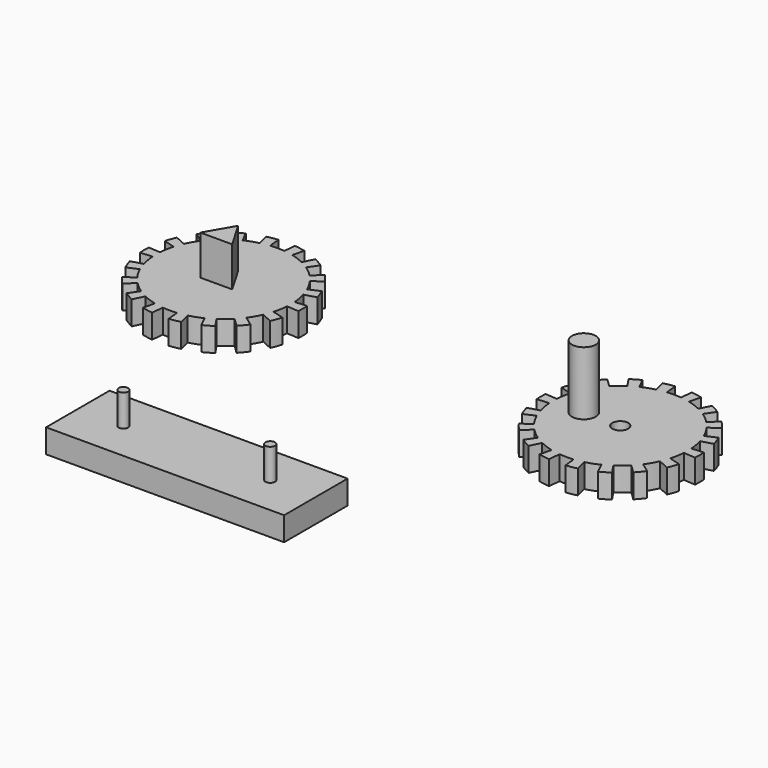
from build123d import *

# Parameters (mm, degrees)
F0_R      = 10
F1_DEPTH  = 3
F3_DEPTH  = 3.001
F4_COUNT  = 18
F4_ANGLE  = 340
F7_R      = 1
F8_DEPTH  = 4
F10_DEPTH = 5
F11_R     = 1.5
F12_DEPTH = 8
F13_W     = 30
F13_H     = 10
F14_DEPTH = 3
F15_R     = 0.6
F16_DEPTH = 4


with BuildPart() as f1:
    # F0 (on Top) → F1 (new body)
    with BuildSketch(Plane.XY):
        Circle(F0_R)
    extrude(amount=F1_DEPTH)

    # F2 (on face) → F3 (cut, through all)
    with BuildSketch(Plane.XY.offset(3)):
        with BuildLine():
            ThreePointArc((-0.8884919378, 8.4534361106), (0, 8.5), (0.8884919378, 8.4534361106))
            Line((0.8884919378, 8.4534361106), (1.0452846327, 9.9452189537))
            ThreePointArc((1.0452846327, 9.9452189537), (0, 10), (-1.0452846327, 9.9452189537))
            Line((-1.0452846327, 9.9452189537), (-0.8884919378, 8.4534361106))
        make_face()
    f3 = extrude(amount=-F3_DEPTH, mode=Mode.SUBTRACT)

    # F4: F3 ×18 about axis
    f4_axis = Axis((0, 0, 0), (0, 0, -1))
    for i in range(1, F4_COUNT):
        add(f3.rotate(f4_axis, i * F4_ANGLE / (F4_COUNT - 1)), mode=Mode.SUBTRACT)

    # F7 (on face) → F8 (cut)
    with BuildSketch(Plane(origin=(0, 0, 0), x_dir=(1, 0, 0), z_dir=(0, 0, -1))):
        Circle(F7_R)
    extrude(amount=-F8_DEPTH, mode=Mode.SUBTRACT)


with BuildPart() as f9_1:
    # F9: instance of F1
    add(f1.part.mirror(Plane.YZ.offset(25)))

    # F11 (on face) → F12 (join)
    with BuildSketch(Plane.XY.offset(3)):
        with Locations((45.4053878784, 0)):
            Circle(F11_R)
    extrude(amount=F12_DEPTH)


with BuildPart() as f1_1:
    add(f1.part)

    # F6 (on face) → F10 (join)
    with BuildSketch(Plane.XY.offset(3)):
        Polygon((2, -1.1547005384), (0, 2.3094010768), (-2, -1.1547005384), align=None)
    extrude(amount=F10_DEPTH)


with BuildPart() as f14:
    # F13 (on Top) → F14 (new body)
    with BuildSketch(Plane.XY):
        with Locations((21.0697623773, -30.5459368974)):
            Rectangle(F13_W, F13_H)
    extrude(amount=F14_DEPTH)

    # F15 (on face) → F16 (join)
    with BuildSketch(Plane.XY.offset(3)):
        with Locations((11.8197623773, -30.5459368974)):
            Circle(F15_R)
        with Locations((30.3197623773, -30.5459368974)):
            Circle(F15_R)
    extrude(amount=F16_DEPTH)


solid = Compound([f9_1.part, f1_1.part, f14.part])
